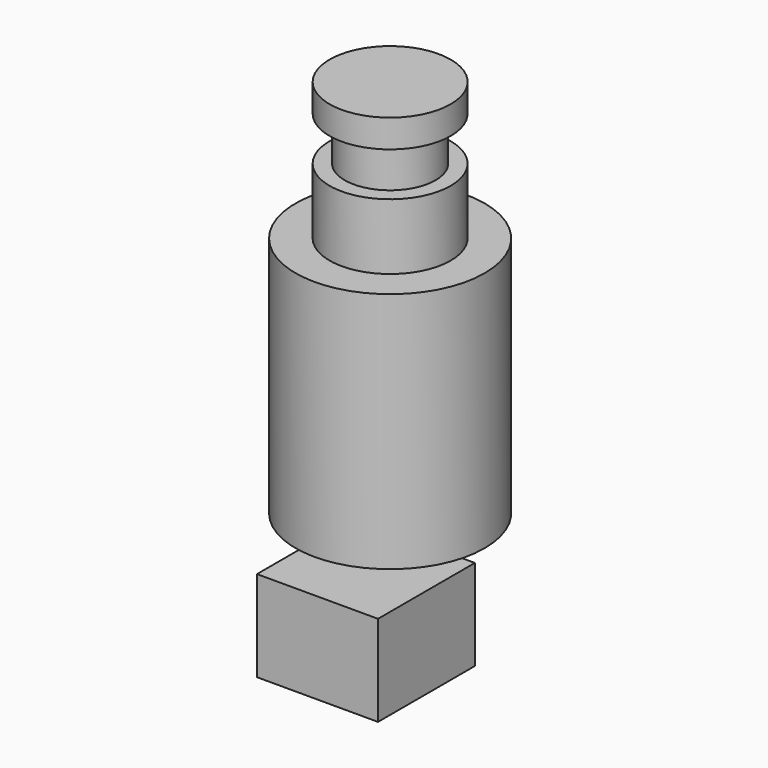
from build123d import *

# Parameters (mm, degrees)
F0_R      = 8
F1_DEPTH  = 3.7
F2_R      = 6
F3_DEPTH  = 5.8
F4_R      = 8
F5_DEPTH  = 8.7
F6_R      = 12.5
F7_DEPTH  = 32
F8_R      = 2.200771
F9_DEPTH  = 4.8
F10_W     = 16
F10_H     = 16
F11_DEPTH = 12
F13_DEPTH = 5
F14_SIZE  = 3


with BuildPart() as f1:
    # F0 (on Top) → F1 (new body)
    with BuildSketch(Plane.XY):
        Circle(F0_R)
    extrude(amount=F1_DEPTH)

    # F2 (on face) → F3 (join)
    with BuildSketch(Plane(origin=(0, 0, 0), x_dir=(1, 0, 0), z_dir=(0, 0, -1))):
        Circle(F2_R)
    extrude(amount=F3_DEPTH)

    # F4 (on face) → F5 (join)
    with BuildSketch(Plane(origin=(0, 0, -5.8), x_dir=(1, 0, 0), z_dir=(0, 0, -1))):
        Circle(F4_R)
    extrude(amount=F5_DEPTH)

    # F6 (on face) → F7 (join)
    with BuildSketch(Plane(origin=(0, 0, -14.5), x_dir=(1, 0, 0), z_dir=(0, 0, -1))):
        Circle(F6_R)
    extrude(amount=F7_DEPTH)

    # F8 (on face) → F9 (join)
    with BuildSketch(Plane(origin=(0, 0, -46.5), x_dir=(1, 0, 0), z_dir=(0, 0, -1))):
        Circle(F8_R)
    extrude(amount=F9_DEPTH)

    # F10 (on face) → F11 (join)
    with BuildSketch(Plane(origin=(0, 0, -51.3), x_dir=(1, 0, 0), z_dir=(0, 0, -1))):
        with Locations((0, 4)):
            Rectangle(F10_W, F10_H)
    extrude(amount=F11_DEPTH)

    # F12 (on face) → F13 (join)
    with BuildSketch(Plane(origin=(0, 0, -63.3), x_dir=(1, 0, 0), z_dir=(0, 0, -1))):
        Polygon((2, 3.464102), (-2, 3.464102), (-4, 0), (-2, -3.464102), (2, -3.464102), (4, 0), align=None)
    extrude(amount=F13_DEPTH)

    # F14
    f14_edges = [f1.edges().sort_by_distance(p)[0] for p in [
        (0, -3.464102, -68.3),
        (-3, -1.732051, -68.3),
        (-3, 1.732051, -68.3),
        (0, 3.464102, -68.3),
        (3, 1.732051, -68.3),
        (3, -1.732051, -68.3),
    ]]
    chamfer(f14_edges, length=F14_SIZE)


solid = f1.part
